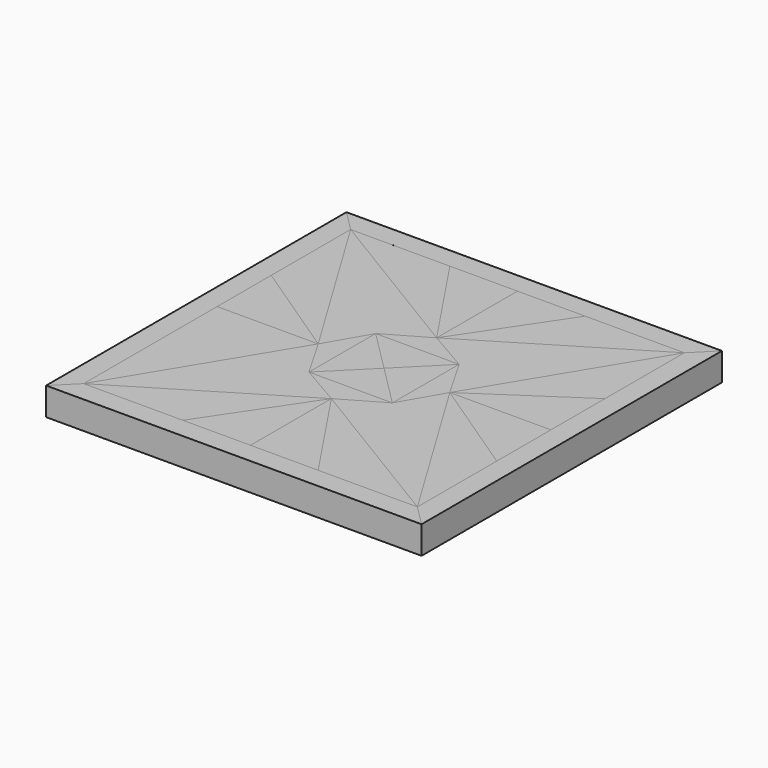
from build123d import *

# Parameters (mm, degrees)
F4_DEPTH  = 25.4
F5_DEPTH  = 25.4
F6_DEPTH  = 25.4
F7_DEPTH  = 25.4
F8_DEPTH  = 25.4
F9_DEPTH  = 25.4
F10_DEPTH = 25.4
F11_DEPTH = 25.4
F13_DEPTH = 25.4
F15_DEPTH = 25.4
F16_DEPTH = 25.4
F17_DEPTH = 25.4
F19_DEPTH = 25.4
F20_DEPTH = 25.4


with BuildPart() as f4:
    # F2 (on face) → F4 (new body)
    with BuildSketch(Plane.XY):
        Polygon((38.1, 38.1), (-38.1, 38.1), (0, 0), align=None)
    extrude(amount=F4_DEPTH)


with BuildPart() as f5:
    # F2 (on face) → F5 (new body)
    with BuildSketch(Plane.XY):
        Polygon((0, 0), (-38.1, 38.1), (-38.1, -38.1), align=None)
    extrude(amount=F5_DEPTH)


with BuildPart() as f6:
    # F2 (on face) → F6 (new body)
    with BuildSketch(Plane.XY):
        Polygon((0, 0), (-38.1, -38.1), (38.1, -38.1), align=None)
    extrude(amount=F6_DEPTH)


with BuildPart() as f7:
    # F2 (on face) → F7 (new body)
    with BuildSketch(Plane.XY):
        Polygon((38.1, -38.1), (38.1, 38.1), (0, 0), align=None)
    extrude(amount=F7_DEPTH)


with BuildPart() as f8:
    # F3 (on face) → F8 (new body)
    with BuildSketch(Plane.XY):
        Polygon((0, 60.097045), (-38.1, 38.1), (38.1, 38.1), align=None)
    extrude(amount=F8_DEPTH)


with BuildPart() as f9:
    # F3 (on face) → F9 (new body)
    with BuildSketch(Plane.XY):
        Polygon((-38.1, -38.1), (-38.1, 38.1), (-60.097045, 0), align=None)
    extrude(amount=F9_DEPTH)


with BuildPart() as f10:
    # F3 (on face) → F10 (new body)
    with BuildSketch(Plane.XY):
        Polygon((38.1, -38.1), (-38.1, -38.1), (0, -60.097045), align=None)
    extrude(amount=F10_DEPTH)


with BuildPart() as f11:
    # F3 (on face) → F11 (new body)
    with BuildSketch(Plane.XY):
        Polygon((60.097045, 0), (38.1, 38.1), (38.1, -38.1), align=None)
    extrude(amount=F11_DEPTH)


with BuildPart() as f13:
    # F12 (on face) → F13 (new body)
    with BuildSketch(Plane.XY):
        Polygon((-38.1, 38.1), (0, 60.097045), (-152.4, 152.4), (-60.097045, 0), align=None)
        Polygon((152.4, 152.4), (0, 60.097045), (38.1, 38.1), (60.097045, 0), align=None)
        Polygon((-38.1, -38.1), (-60.097045, 0), (-152.4, -152.4), (0, -60.097045), align=None)
        Polygon((152.4, -152.4), (60.097045, 0), (38.1, -38.1), (0, -60.097045), align=None)
    extrude(amount=F13_DEPTH)


with BuildPart() as f15:
    # F14 (on face) → F15 (new body)
    with BuildSketch(Plane.XY):
        Polygon((0, -60.097045), (-152.4, -152.4), (-61.787442, -152.4), align=None)
        Polygon((-60.097045, 0), (-152.4, 61.787442), (-152.4, 0), align=None)
        Polygon((-61.787442, 152.4), (-152.4, 152.4), (0, 60.097045), align=None)
        Polygon((0, 152.4), (0, 60.097045), (61.787442, 152.4), align=None)
        Polygon((152.4, 0), (152.4, 61.787442), (60.097045, 0), align=None)
        Polygon((152.4, -61.787442), (60.097045, 0), (152.4, -152.4), align=None)
        Polygon((152.4, -152.4), (0, -60.097045), (61.787442, -152.4), align=None)
    extrude(amount=F15_DEPTH)


with BuildPart() as f16:
    # F14 (on face) → F16 (new body)
    with BuildSketch(Plane.XY):
        Polygon((0, -60.097045), (-61.787442, -152.4), (0, -152.4), align=None)
        Polygon((-152.4, -152.4), (-60.097045, 0), (-152.4, -61.787442), align=None)
        Polygon((0, 152.4), (-61.787442, 152.4), (0, 60.097045), align=None)
        Polygon((152.4, 0), (60.097045, 0), (152.4, -61.787442), align=None)
        Polygon((152.4, 61.787442), (152.4, 152.4), (60.097045, 0), align=None)
        Polygon((61.787442, 152.4), (0, 60.097045), (152.4, 152.4), align=None)
        Polygon((-60.097045, 0), (-152.4, 152.4), (-152.4, 61.787442), align=None)
        Polygon((-152.4, -61.787442), (-60.097045, 0), (-152.4, 0), align=None)
    extrude(amount=F16_DEPTH)


with BuildPart() as f17:
    # F14 (on face) → F17 (new body)
    with BuildSketch(Plane.XY):
        Polygon((61.787442, -152.4), (0, -60.097045), (0, -152.4), align=None)
    extrude(amount=F17_DEPTH)


with BuildPart() as f19:
    # F18 (on face) → F19 (new body)
    with BuildSketch(Plane.XY):
        Polygon((-152.4, 61.787442), (-152.4, 152.4), (-171.45, 171.45), (-171.45, -171.45), (-152.4, -152.4), (-152.4, -61.787442), (-152.4, 0), align=None)
        Polygon((171.45, -171.45), (171.45, 171.45), (152.4, 152.4), (152.4, 61.787442), (152.4, 0), (152.4, -61.787442), (152.4, -152.4), align=None)
    extrude(amount=F19_DEPTH)


with BuildPart() as f20:
    # F18 (on face) → F20 (new body)
    with BuildSketch(Plane.XY):
        Polygon((-171.45, 171.45), (-152.4, 152.4), (-61.787442, 152.4), (0, 152.4), (61.787442, 152.4), (152.4, 152.4), (171.45, 171.45), align=None)
        Polygon((-152.4, -152.4), (-171.45, -171.45), (171.45, -171.45), (152.4, -152.4), (61.787442, -152.4), (0, -152.4), (-61.787442, -152.4), align=None)
    extrude(amount=F20_DEPTH)


solid = Compound([f4.part, f5.part, f6.part, f7.part, f8.part, f9.part, f10.part, f11.part, f13.part, f15.part, f16.part, f17.part, f19.part, f20.part])
